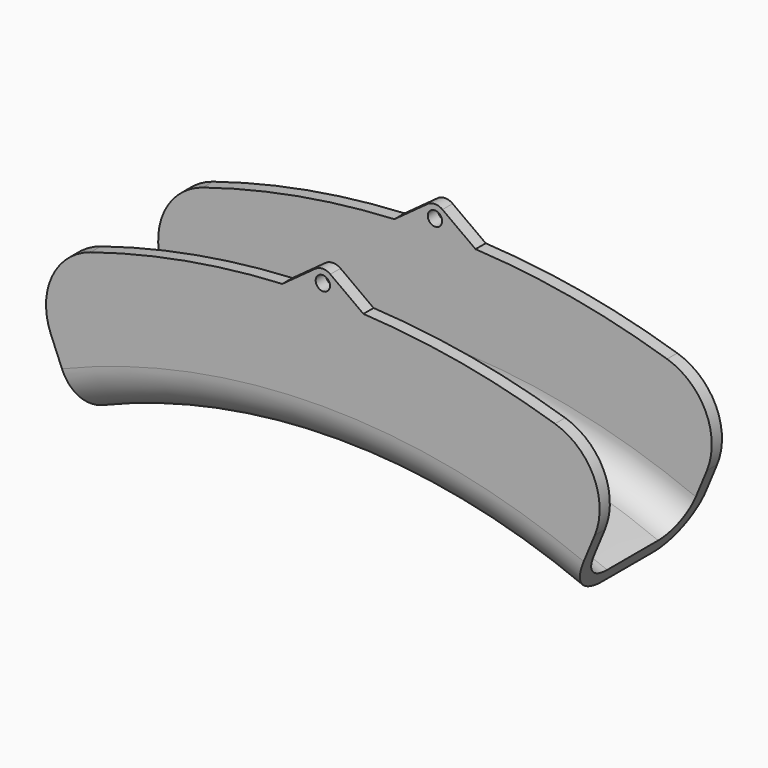
from build123d import *

# Parameters (mm, degrees)
F1_ANGLE_BACK = 22.5
F1_ANGLE      = 45
F2_R          = 1.125
F3_DEPTH      = 24
F5_DEPTH      = 10
F6_R          = 10
F7_R          = 5
F8_R          = 7


with BuildPart() as f1:
    # F0 (on Right) → F1 (revolve)
    with BuildSketch(Plane.YZ, mode=Mode.PRIVATE) as f1_sk:
        Polygon((10, 10), (10, -10), (-10, -10), (-10, 10), (-12, 10), (-12, -12), (12, -12), (12, 10), align=None)
    revolve(f1_sk.sketch.rotate(Axis((0, -36.9127653539, -112), (0, -1, 0)), -F1_ANGLE_BACK), axis=Axis((0, -36.9127653539, -112), (0, -1, 0)), revolution_arc=F1_ANGLE)

    # F2 (on face) → F3 (join)
    with BuildSketch(Plane.XZ.offset(12)):
        with BuildLine():
            Line((6.3674504599, 9.8337210079), (1.178053683, 13.6162269395))
            ThreePointArc((1.178053683, 13.6162269395), (0, 14), (-1.178053683, 13.6162269395))
            Line((-1.178053683, 13.6162269395), (-6.3674504599, 9.8337210079))
            ThreePointArc((-6.3674504599, 9.8337210079), (0, 10), (6.3674504599, 9.8337210079))
        make_face()
        with Locations((0, 12)):
            Circle(F2_R, mode=Mode.SUBTRACT)
    extrude(amount=-F3_DEPTH)

    # F4 (on Right) → F5 (cut, symmetric)
    with BuildSketch(Plane.YZ):
        Polygon((-10, 0), (0, 0), (10, 0), (10, 19.6699723601), (-10, 19.6699723601), align=None)
    extrude(amount=F5_DEPTH, both=True, mode=Mode.SUBTRACT)

    # F6
    f6_edges = [f1.edges().sort_by_distance(p)[0] for p in [
        (-46.687379, 11, 0.713303),
        (-46.687379, -11, 0.713303),
        (46.687379, -11, 0.713303),
        (46.687379, 11, 0.713303),
    ]]
    fillet(f6_edges, radius=F6_R)

    # F7
    f7_edges = [f1.edges().sort_by_distance(p)[0] for p in [
        (0, 10, -10),
        (0, -10, -10),
    ]]
    fillet(f7_edges, radius=F7_R)

    # F8
    f8_edges = [f1.edges().sort_by_distance(p)[0] for p in [
        (0, 12, -12),
        (0, -12, -12),
    ]]
    fillet(f8_edges, radius=F8_R)


solid = f1.part
